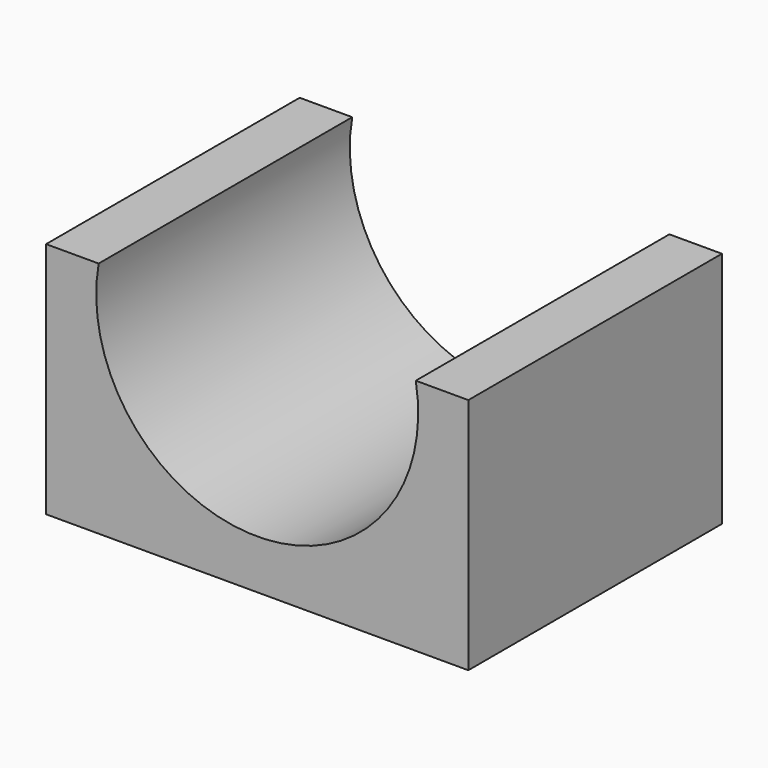
from build123d import *

# Parameters (mm, degrees)
F1_DEPTH = 113.19281


with BuildPart() as f1:
    # F0 (on Front) → F1 (new body)
    with BuildSketch(Plane.XZ):
        with BuildLine():
            Line((75.394042, -42.466845), (75.394042, 42.466845))
            Line((75.394042, 42.466845), (56.622468, 42.466845))
            ThreePointArc((56.622468, 42.466845), (4e-06, -24.931278), (-56.62246, 42.466845))
            Line((-56.62246, 42.466845), (-75.394042, 42.466845))
            Line((-75.394042, 42.466845), (-75.394042, -42.466845))
            Line((-75.394042, -42.466845), (75.394042, -42.466845))
        make_face()
    extrude(amount=F1_DEPTH)


solid = f1.part
